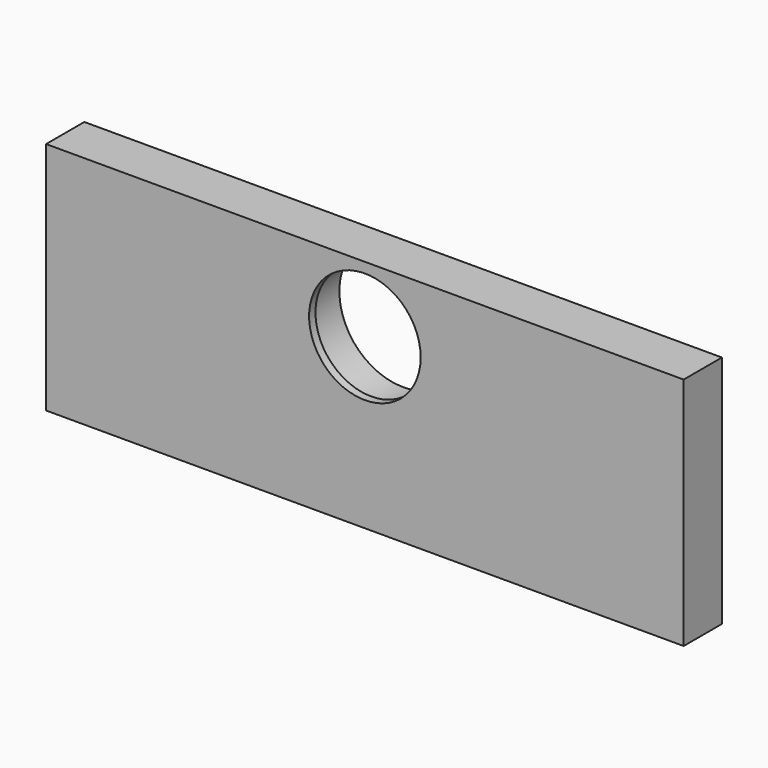
from build123d import *

# Parameters (mm, degrees)
F1_DEPTH = 6
F2_R     = 8
F2_R_2   = 7
F3_DEPTH = 5
F4_DEPTH = 26.3


with BuildPart() as f1:
    # F0 (on Front) → F1 (new body)
    with BuildSketch(Plane.XZ):
        Polygon((40, 0), (0, 0), (-40, 0), (-40, -29.434), (0, -29.434), (40, -29.434), align=None)
    extrude(amount=F1_DEPTH)

    # F2 (on face) → F3 (cut)
    with BuildSketch(Plane.XZ):
        with Locations((0, -8.284)):
            Circle(F2_R)
        with Locations((0, -8.284)):
            Circle(F2_R_2, mode=Mode.SUBTRACT)
    extrude(amount=F3_DEPTH, mode=Mode.SUBTRACT)

    # F2 (on face) → F4 (cut)
    with BuildSketch(Plane.XZ):
        with Locations((0, -8.284)):
            Circle(F2_R_2)
    extrude(amount=F4_DEPTH, mode=Mode.SUBTRACT)


solid = f1.part
